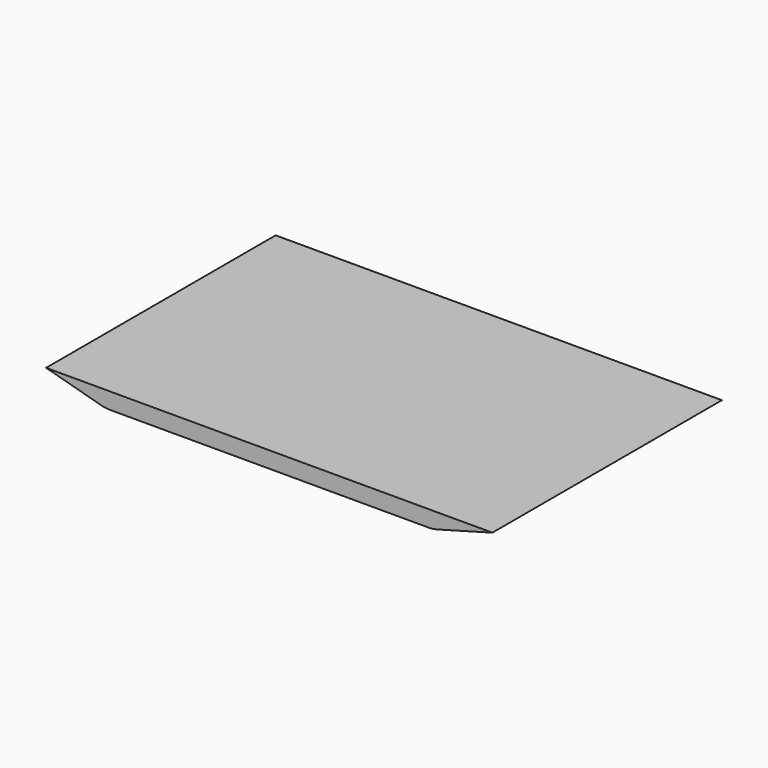
from build123d import *

# Parameters (mm, degrees)
F1_DEPTH      = 57.15
F1_DEPTH_BACK = 57.15


with BuildPart() as f1:
    # F0 (on Front) → F1 (new body, two sides)
    with BuildSketch(Plane.XZ) as f1_sk:
        with BuildLine():
            Line((87.35775, 0), (-90.44225, 0))
            Line((-90.44225, 0), (-68.391527, -6.028698))
            ThreePointArc((-68.391527, -6.028698), (-66.731909, -6.365395), (-65.04225, -6.478296))
            Line((-65.04225, -6.478296), (61.95775, -6.478296))
            ThreePointArc((61.95775, -6.478296), (63.647409, -6.365395), (65.307026, -6.028698))
            Line((65.307026, -6.028698), (87.35775, 0))
        make_face()
    extrude(amount=F1_DEPTH)
    extrude(f1_sk.sketch, amount=-F1_DEPTH_BACK)


solid = f1.part
